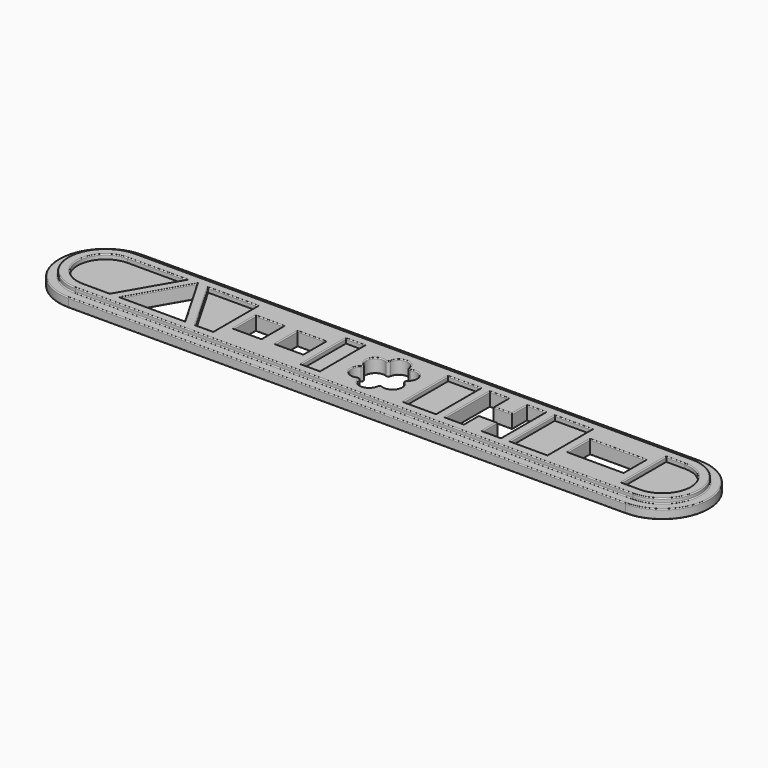
from build123d import *

# Parameters (mm, degrees)
F0_W     = 6
F0_H     = 6
F0_W_2   = 12
F1_DEPTH = 2
F2_W     = 4
F2_H     = 12
F2_W_2   = 14
F2_H_2   = 16
F2_W_3   = 7
F2_W_4   = 8
F2_W_5   = 12
F2_H_3   = 5
F3_DEPTH = 1
F4_R     = 0.2


with BuildPart() as f1:
    # F0 (on Top) → F1 (new body)
    with BuildSketch(Plane.XY):
        with BuildLine():
            ThreePointArc((-60, 10), (-70, 0), (-60, -10))
            Line((-60, -10), (60, -10))
            ThreePointArc((60, -10), (70, 0), (60, 10))
            Line((60, 10), (-60, 10))
        make_face()
        Polygon((-38.0717967697, -6), (-51.9282032303, -6), (-45, 6), align=None, mode=Mode.SUBTRACT)
        with Locations((-27, 0)):
            Rectangle(F0_W, F0_H, mode=Mode.SUBTRACT)
        with Locations((-18, 0)):
            Rectangle(F0_W, F0_H, mode=Mode.SUBTRACT)
        with BuildLine():
            ThreePointArc((-1.9856406461, 4.2392304845), (0, 6), (1.9856406461, 4.2392304845))
            ThreePointArc((1.9856406461, 4.2392304845), (2.2320508076, 3.8660254038), (2.6784609691, 3.8392304845))
            ThreePointArc((2.6784609691, 3.8392304845), (5.1961524227, 3), (4.6641016151, 0.4))
            ThreePointArc((4.6641016151, 0.4), (4.4641016151, 0), (4.6641016151, -0.4))
            ThreePointArc((4.6641016151, -0.4), (5.1961524227, -3), (2.6784609691, -3.8392304845))
            ThreePointArc((2.6784609691, -3.8392304845), (2.2320508076, -3.8660254038), (1.9856406461, -4.2392304845))
            ThreePointArc((1.9856406461, -4.2392304845), (0, -6), (-1.9856406461, -4.2392304845))
            ThreePointArc((-1.9856406461, -4.2392304845), (-2.2320508076, -3.8660254038), (-2.6784609691, -3.8392304845))
            ThreePointArc((-2.6784609691, -3.8392304845), (-5.1961524227, -3), (-4.6641016151, -0.4))
            ThreePointArc((-4.6641016151, -0.4), (-4.4641016151, 0), (-4.6641016151, 0.4))
            ThreePointArc((-4.6641016151, 0.4), (-5.1961524227, 3), (-2.6784609691, 3.8392304845))
            ThreePointArc((-2.6784609691, 3.8392304845), (-2.2320508076, 3.8660254038), (-1.9856406461, 4.2392304845))
        make_face(mode=Mode.SUBTRACT)
        Polygon((18, -6), (18, 6), (22, 6), (22, 2), (26, 2), (26, 6), (30, 6), (30, -6), (26, -6), (26, -2), (22, -2), (22, -6), align=None, mode=Mode.SUBTRACT)
        with Locations((48, 0)):
            Rectangle(F0_W_2, F0_H, mode=Mode.SUBTRACT)
    extrude(amount=F1_DEPTH)

    # F2 (on face) → F3 (join)
    with BuildSketch(Plane.XY.offset(2)):
        with BuildLine():
            Line((-51.9282032303, -6), (-45, 6))
            Line((-45, 6), (-46.1547005384, 8))
            Line((-46.1547005384, 8), (-60, 8))
            ThreePointArc((-60, 8), (-68, 0), (-60, -8))
            Line((-60, -8), (-53.0829037687, -8))
            Line((-53.0829037687, -8), (-51.9282032303, -6))
        make_face()
        with BuildLine():
            Line((-60, 6), (-47.3094010768, 6))
            Line((-47.3094010768, 6), (-54.237604307, -6))
            Line((-54.237604307, -6), (-60, -6))
            ThreePointArc((-60, -6), (-66, 0), (-60, 6))
        make_face(mode=Mode.SUBTRACT)
        Polygon((-53.0829037687, -8), (-36.9170962313, -8), (-38.0717967697, -6), (-51.9282032303, -6), align=None)
        Polygon((-45, 6), (-43.8452994616, 8), (-46.1547005384, 8), align=None)
        Polygon((-30, 3), (-30, 8), (-43.8452994616, 8), (-45, 6), (-38.0717967697, -6), (-36.9170962313, -8), (-30, -8), (-30, -3), align=None)
        Polygon((-35.762395693, -6), (-42.6905989232, 6), (-32, 6), (-32, -6), align=None, mode=Mode.SUBTRACT)
        Polygon((-7, -8), (-7, 8), (-15, 8), (-15, 3), (-15, -3), (-15, -8), align=None)
        with Locations((-11, 0)):
            Rectangle(F2_W, F2_H, mode=Mode.SUBTRACT)
        Polygon((-15, 3), (-15, 8), (-30, 8), (-30, 3), (-24, 3), (-24, -3), (-30, -3), (-30, -8), (-15, -8), (-15, -3), (-21, -3), (-21, 3), align=None)
        Rectangle(F2_W_2, F2_H_2)
        with BuildLine():
            ThreePointArc((-1.9856406461, -4.2392304845), (-2.2320508076, -3.8660254038), (-2.6784609691, -3.8392304845))
            ThreePointArc((-2.6784609691, -3.8392304845), (-5.1961524227, -3), (-4.6641016151, -0.4))
            ThreePointArc((-4.6641016151, -0.4), (-4.4641016151, 0), (-4.6641016151, 0.4))
            ThreePointArc((-4.6641016151, 0.4), (-5.1961524227, 3), (-2.6784609691, 3.8392304845))
            ThreePointArc((-2.6784609691, 3.8392304845), (-2.2320508076, 3.8660254038), (-1.9856406461, 4.2392304845))
            ThreePointArc((-1.9856406461, 4.2392304845), (0, 6), (1.9856406461, 4.2392304845))
            ThreePointArc((1.9856406461, 4.2392304845), (2.2320508076, 3.8660254038), (2.6784609691, 3.8392304845))
            ThreePointArc((2.6784609691, 3.8392304845), (5.1961524227, 3), (4.6641016151, 0.4))
            ThreePointArc((4.6641016151, 0.4), (4.4641016151, 0), (4.6641016151, -0.4))
            ThreePointArc((4.6641016151, -0.4), (5.1961524227, -3), (2.6784609691, -3.8392304845))
            ThreePointArc((2.6784609691, -3.8392304845), (2.2320508076, -3.8660254038), (1.9856406461, -4.2392304845))
            ThreePointArc((1.9856406461, -4.2392304845), (0, -6), (-1.9856406461, -4.2392304845))
        make_face(mode=Mode.SUBTRACT)
        Polygon((18, 6), (18, 8), (7, 8), (7, -8), (18, -8), (18, -6), align=None)
        with Locations((12.5, 0)):
            Rectangle(F2_W_3, F2_H, mode=Mode.SUBTRACT)
        Polygon((30, 6), (30, 8), (18, 8), (18, 6), (22, 6), (22, 2), (26, 2), (26, 6), align=None)
        Polygon((18, -8), (30, -8), (30, -6), (26, -6), (26, -2), (22, -2), (22, -6), (18, -6), align=None)
        Polygon((42, 3), (42, 8), (30, 8), (30, 6), (30, -6), (30, -8), (42, -8), (42, -3), align=None)
        with Locations((36, 0)):
            Rectangle(F2_W_4, F2_H, mode=Mode.SUBTRACT)
        with Locations((48, -5.5)):
            Rectangle(F2_W_5, F2_H_3)
        with Locations((48, 5.5)):
            Rectangle(F2_W_5, F2_H_3)
        with BuildLine():
            ThreePointArc((60, -8), (68, 0), (60, 8))
            Line((60, 8), (54, 8))
            Line((54, 8), (54, 3))
            Line((54, 3), (54, -3))
            Line((54, -3), (54, -8))
            Line((54, -8), (60, -8))
        make_face()
        with BuildLine():
            ThreePointArc((60, 6), (66, 0), (60, -6))
            Line((60, -6), (56, -6))
            Line((56, -6), (56, 6))
            Line((56, 6), (60, 6))
        make_face(mode=Mode.SUBTRACT)
    extrude(amount=F3_DEPTH)

    # F4
    f4_edges = [f1.edges().sort_by_distance(p)[0] for p in [
        (-48.464102, 0, 3),
        (-41.535898, 0, 3),
        (-45, -6, 3),
        (-68, 0, 3),
        (0, -8, 3),
        (68, 0, 3),
        (0, 8, 3),
        (48, -3, 3),
        (42, 0, 3),
        (48, 3, 3),
        (54, 0, 3),
        (28, -6, 3),
        (26, -4, 3),
        (24, -2, 3),
        (22, -4, 3),
        (20, -6, 3),
        (18, 0, 3),
        (20, 6, 3),
        (22, 4, 3),
        (24, 2, 3),
        (26, 4, 3),
        (28, 6, 3),
        (30, 0, 3),
        (-30, 0, 3),
        (-27, 3, 3),
        (-24, 0, 3),
        (-27, -3, 3),
        (-57.118802, -6, 3),
        (-66, 0, 3),
        (-53.654701, 6, 3),
        (-50.773503, 0, 3),
        (-33.881198, -6, 3),
        (-39.226497, 0, 3),
        (-37.345299, 6, 3),
        (-32, 0, 3),
        (-21, 0, 3),
        (-18, 3, 3),
        (-15, 0, 3),
        (-18, -3, 3),
        (-13, 0, 3),
        (-11, 6, 3),
        (-9, 0, 3),
        (-11, -6, 3),
        (5.196152, -3, 3),
        (2.232051, -3.866025, 3),
        (0, -6, 3),
        (-2.232051, -3.866025, 3),
        (-5.196152, -3, 3),
        (-4.464102, 0, 3),
        (-5.196152, 3, 3),
        (-2.232051, 3.866025, 3),
        (0, 6, 3),
        (2.232051, 3.866025, 3),
        (5.196152, 3, 3),
        (4.464102, 0, 3),
        (9, 0, 3),
        (12.5, 6, 3),
        (16, 0, 3),
        (12.5, -6, 3),
        (36, -6, 3),
        (32, 0, 3),
        (36, 6, 3),
        (40, 0, 3),
        (56, 0, 3),
        (58, 6, 3),
        (66, 0, 3),
        (58, -6, 3),
        (-70, 0, 2),
        (0, 10, 2),
        (0, -10, 2),
        (70, 0, 2),
        (-68, 0, 2),
        (0, -8, 2),
        (68, 0, 2),
        (0, 8, 2),
        (-70, 0, 0),
        (0, -10, 0),
        (70, 0, 0),
        (0, 10, 0),
        (-45, -6, 0),
        (-48.464102, 0, 0),
        (-41.535898, 0, 0),
        (-24, 0, 0),
        (-27, -3, 0),
        (-30, 0, 0),
        (-27, 3, 0),
        (-18, 3, 0),
        (-15, 0, 0),
        (-18, -3, 0),
        (-21, 0, 0),
        (2.232051, -3.866025, 0),
        (0, -6, 0),
        (-2.232051, -3.866025, 0),
        (-5.196152, -3, 0),
        (-4.464102, 0, 0),
        (-5.196152, 3, 0),
        (-2.232051, 3.866025, 0),
        (0, 6, 0),
        (2.232051, 3.866025, 0),
        (5.196152, 3, 0),
        (4.464102, 0, 0),
        (5.196152, -3, 0),
        (18, 0, 0),
        (20, 6, 0),
        (22, 4, 0),
        (24, 2, 0),
        (26, 4, 0),
        (28, 6, 0),
        (30, 0, 0),
        (28, -6, 0),
        (26, -4, 0),
        (24, -2, 0),
        (22, -4, 0),
        (20, -6, 0),
        (54, 0, 0),
        (48, -3, 0),
        (42, 0, 0),
        (48, 3, 0),
    ]]
    fillet(f4_edges, radius=F4_R)


solid = f1.part
